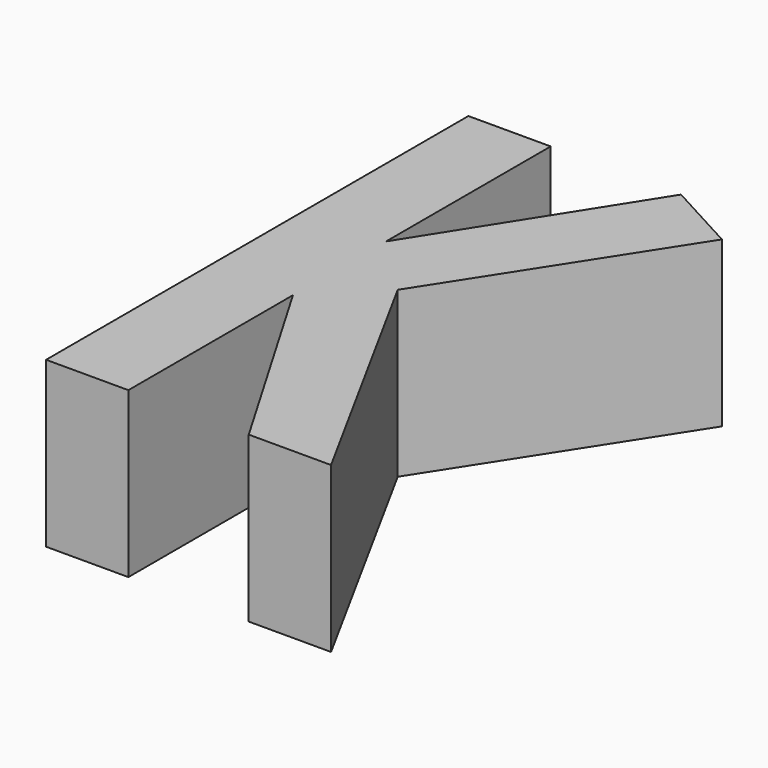
from build123d import *

# Parameters (mm, degrees)
F1_DEPTH = 25.4


with BuildPart() as f1:
    # F0 (on Top) → F1 (new body)
    with BuildSketch(Plane.XY):
        Polygon((-31.274958, 46.557813), (-43.974958, 46.557813), (-43.974958, -34.902699), (-31.274958, -34.902699), (-31.274958, -3.152699), (-22.294702, 5.827557), (-31.274958, 14.807813), align=None)
        Polygon((-11.159787, 46.557813), (-31.274958, 14.807813), (-22.294702, 5.827557), (0, 40.495705), align=None)
        Polygon((-22.294702, 5.827557), (-31.274958, -3.152699), (-12.7, -34.902699), (0, -34.902699), align=None)
    extrude(amount=F1_DEPTH)


solid = f1.part
